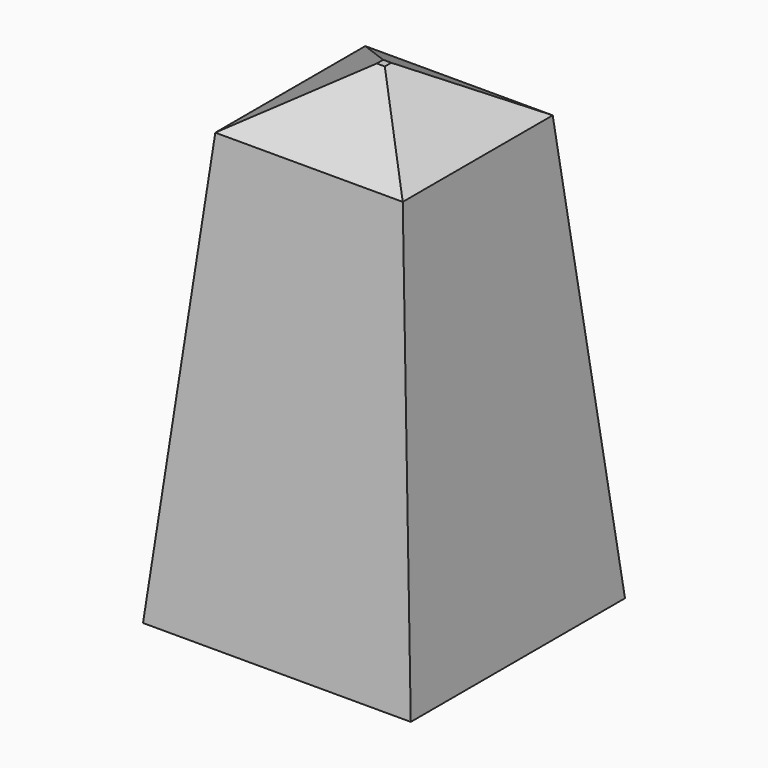
from build123d import *

# Parameters (mm, degrees)
F0_W      = 500
F0_H      = 500
F2_W      = 350
F2_H      = 350
F5_FACE_W = 350
F5_FACE_H = 350
F4_W      = 15
F4_H      = 15


with BuildPart() as f5:
    # F0 (on Top) → F5 section 0
    with BuildSketch(Plane.XY):
        Rectangle(F0_W, F0_H)
    # F2 (on offset) → F5 section 1
    with BuildSketch(Plane.XY.offset(800)):
        Rectangle(F2_W, F2_H)
    loft()

    # F5_face (on face) → F6 section 0
    with BuildSketch(Plane.XY.offset(800)):
        Rectangle(F5_FACE_W, F5_FACE_H)
    # F4 (on offset) → F6 section 1
    with BuildSketch(Plane.XY.offset(900)):
        Rectangle(F4_W, F4_H)
    loft()


solid = f5.part
